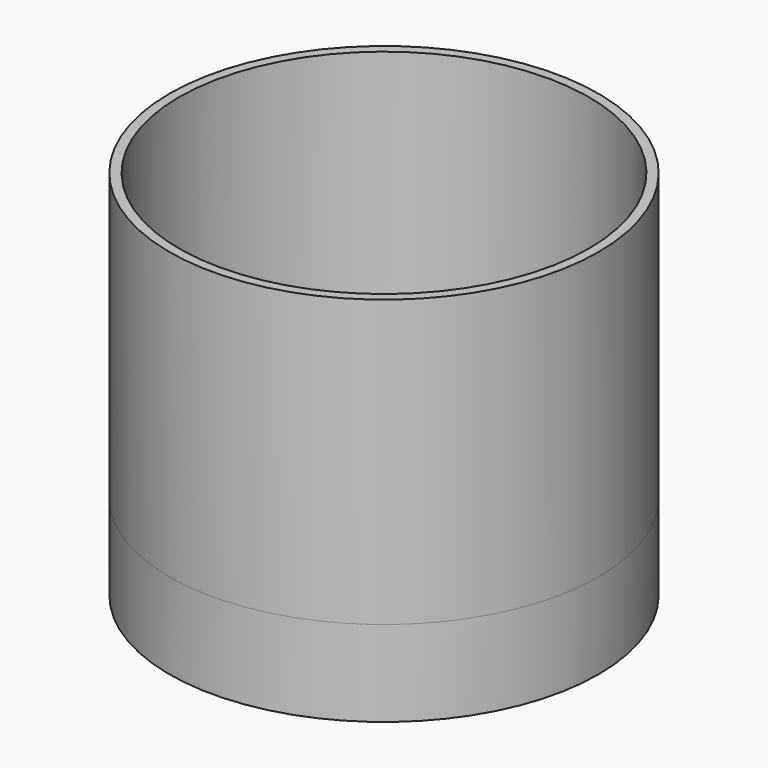
from build123d import *

# Parameters (mm, degrees)
F0_R     = 22.5
F0_R_2   = 21.5
F1_DEPTH = 9
F0_R_3   = 15
F2_DEPTH = 1
F3_DEPTH = 30


with BuildPart() as f1:
    # F0 (on Top) → F1 (new body)
    with BuildSketch(Plane.XY):
        Circle(F0_R)
        Circle(F0_R_2, mode=Mode.SUBTRACT)
    extrude(amount=-F1_DEPTH)


with BuildPart() as f2:
    # F0 (on Top) → F2 (new body)
    with BuildSketch(Plane.XY):
        Circle(F0_R)
        Circle(F0_R_2, mode=Mode.SUBTRACT)
        Circle(F0_R_2)
        Circle(F0_R_3, mode=Mode.SUBTRACT)
    extrude(amount=F2_DEPTH)


with BuildPart() as f3:
    # F0 (on Top) → F3 (new body)
    with BuildSketch(Plane.XY):
        Circle(F0_R)
        Circle(F0_R_2, mode=Mode.SUBTRACT)
    extrude(amount=F3_DEPTH)


solid = Compound([f1.part, f2.part, f3.part])
